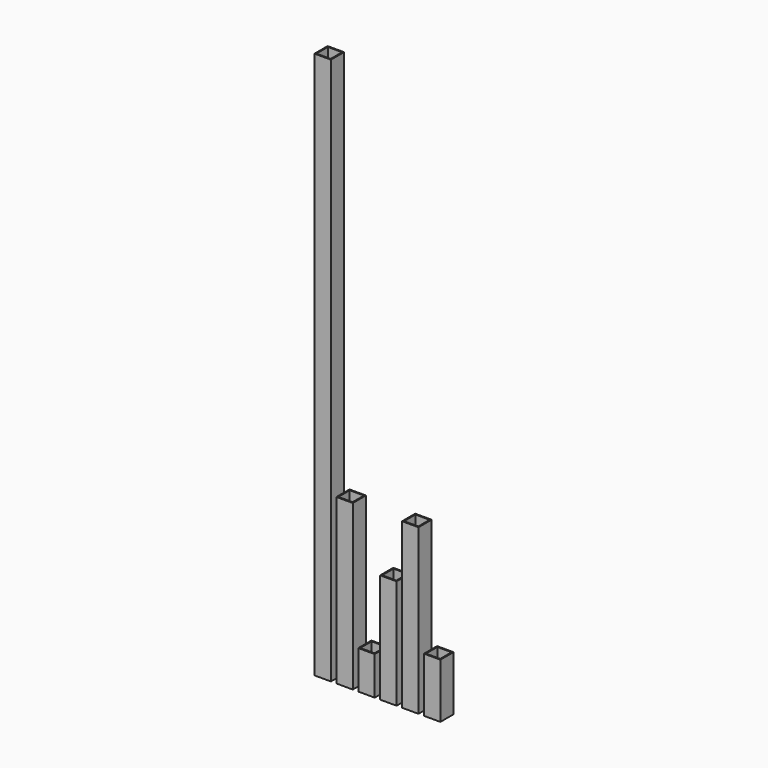
from build123d import *

# Parameters (mm, degrees)
F6_W      = 30
F6_H      = 30
F6_W_2    = 26
F6_H_2    = 26
F7_DEPTH  = 1000
F8_DEPTH  = 300
F9_DEPTH  = 70
F10_DEPTH = 200
F11_DEPTH = 300
F12_DEPTH = 100


with BuildPart() as f7:
    # F6 (on Top) → F7 (new body)
    with BuildSketch(Plane.XY):
        with Locations((15, 15)):
            Rectangle(F6_W, F6_H)
        with Locations((15, 15)):
            Rectangle(F6_W_2, F6_H_2, mode=Mode.SUBTRACT)
    extrude(amount=F7_DEPTH)


with BuildPart() as f8:
    # F6 (on Top) → F8 (new body)
    with BuildSketch(Plane.XY):
        with Locations((55, 15)):
            Rectangle(F6_W, F6_H)
        with Locations((55, 15)):
            Rectangle(F6_W_2, F6_H_2, mode=Mode.SUBTRACT)
    extrude(amount=F8_DEPTH)


with BuildPart() as f9:
    # F6 (on Top) → F9 (new body)
    with BuildSketch(Plane.XY):
        with Locations((95, 15)):
            Rectangle(F6_W, F6_H)
        with Locations((95, 15)):
            Rectangle(F6_W_2, F6_H_2, mode=Mode.SUBTRACT)
    extrude(amount=F9_DEPTH)


with BuildPart() as f10:
    # F6 (on Top) → F10 (new body)
    with BuildSketch(Plane.XY):
        with Locations((135, 15)):
            Rectangle(F6_W, F6_H)
        with Locations((135, 15)):
            Rectangle(F6_W_2, F6_H_2, mode=Mode.SUBTRACT)
    extrude(amount=F10_DEPTH)


with BuildPart() as f11:
    # F6 (on Top) → F11 (new body)
    with BuildSketch(Plane.XY):
        with Locations((175, 15)):
            Rectangle(F6_W, F6_H)
        with Locations((175, 15)):
            Rectangle(F6_W_2, F6_H_2, mode=Mode.SUBTRACT)
    extrude(amount=F11_DEPTH)


with BuildPart() as f12:
    # F6 (on Top) → F12 (new body)
    with BuildSketch(Plane.XY):
        with Locations((215, 15)):
            Rectangle(F6_W, F6_H)
        with Locations((215, 15)):
            Rectangle(F6_W_2, F6_H_2, mode=Mode.SUBTRACT)
    extrude(amount=F12_DEPTH)


solid = Compound([f7.part, f8.part, f9.part, f10.part, f11.part, f12.part])
